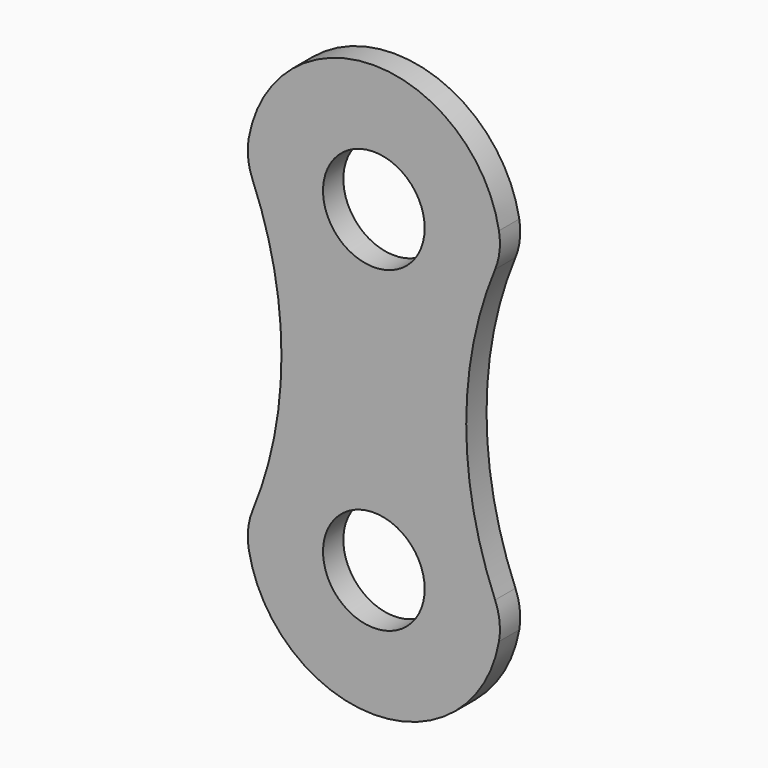
from build123d import *

# Parameters (mm, degrees)
F1_DEPTH = 50.8
F2_R     = 127
F3_R     = 127
F4_R     = 127
F5_R     = 127


with BuildPart() as f1:
    # F0 (on Front) → F1 (new body)
    with BuildSketch(Plane.XZ):
        with BuildLine():
            Line((101.6, 317.5), (254, 317.5))
            ThreePointArc((254, 317.5), (0, 571.5), (-254, 317.5))
            Line((-254, 317.5), (-101.6, 317.5))
            ThreePointArc((-101.6, 317.5), (0, 419.1), (101.6, 317.5))
        make_face()
        with BuildLine():
            ThreePointArc((254, -317.5), (184.7032192794, 0), (254, 317.5))
            Line((254, 317.5), (101.6, 317.5))
            ThreePointArc((101.6, 317.5), (0, 215.9), (-101.6, 317.5))
            Line((-101.6, 317.5), (-254, 317.5))
            ThreePointArc((-254, 317.5), (-184.7032192794, 0), (-254, -317.5))
            Line((-254, -317.5), (-101.6, -317.5))
            ThreePointArc((-101.6, -317.5), (0, -215.9), (101.6, -317.5))
            Line((101.6, -317.5), (254, -317.5))
        make_face()
        with BuildLine():
            ThreePointArc((-254, -317.5), (0, -571.5), (254, -317.5))
            Line((254, -317.5), (101.6, -317.5))
            ThreePointArc((101.6, -317.5), (0, -419.1), (-101.6, -317.5))
            Line((-101.6, -317.5), (-254, -317.5))
        make_face()
    extrude(amount=F1_DEPTH)

    # F2
    f2_edges = [f1.edges().sort_by_distance(p)[0] for p in [
        (-254, -25.4, -317.5),
    ]]
    fillet(f2_edges, radius=F2_R)

    # F3
    f3_edges = [f1.edges().sort_by_distance(p)[0] for p in [
        (-254, -25.4, 317.5),
    ]]
    fillet(f3_edges, radius=F3_R)

    # F4
    f4_edges = [f1.edges().sort_by_distance(p)[0] for p in [
        (254, -25.4, 317.5),
    ]]
    fillet(f4_edges, radius=F4_R)

    # F5
    f5_edges = [f1.edges().sort_by_distance(p)[0] for p in [
        (254, -25.4, -317.5),
    ]]
    fillet(f5_edges, radius=F5_R)


solid = f1.part
